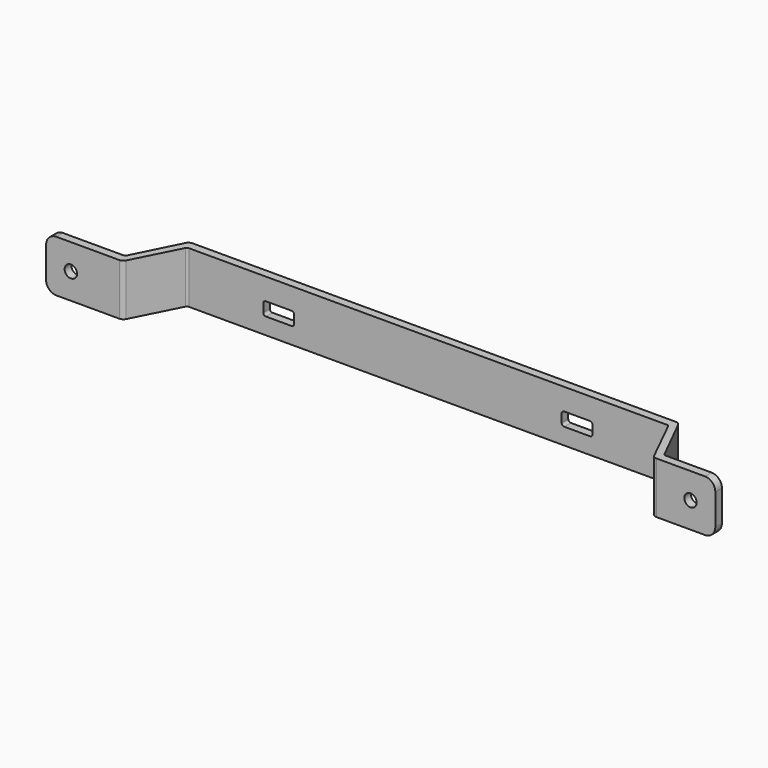
from build123d import *

# Parameters (mm, degrees)
F1_DEPTH = 25
F3_DEPTH = 4
F4_R     = 5
F5_R     = 3
F6_DEPTH = 4
F7_R     = 3
F8_DEPTH = 4


with BuildPart() as f1:
    # F0 (on Top) → F1 (new body)
    with BuildSketch(Plane.XY):
        with BuildLine():
            Line((34.227458, 0), (0, 0))
            Line((0, 0), (0, -4))
            Line((0, -4), (35.464979, -4))
            ThreePointArc((35.464979, -4), (36.773095, -3.630453), (37.694484, -2.631065))
            Line((37.694484, -2.631065), (48.828359, 19.315533))
            ThreePointArc((48.828359, 19.315533), (49.289053, 19.815227), (49.943111, 20))
            Line((49.943111, 20), (281.397978, 20))
            ThreePointArc((281.397978, 20), (282.05826, 19.81138), (282.519275, 19.302444))
            Line((282.519275, 19.302444), (293.312652, -2.604888))
            ThreePointArc((293.312652, -2.604888), (294.23468, -3.62276), (295.555244, -4))
            Line((295.555244, -4), (324, -4))
            Line((324, -4), (324, 0))
            Line((324, 0), (296.772542, 0))
            ThreePointArc((296.772542, 0), (296.115379, 0.186686), (295.654508, 0.690983))
            Line((295.654508, 0.690983), (284.690983, 22.618034))
            ThreePointArc((284.690983, 22.618034), (283.769243, 23.626627), (282.454915, 24))
            Line((282.454915, 24), (48.545085, 24))
            ThreePointArc((48.545085, 24), (47.230757, 23.626627), (46.309017, 22.618034))
            Line((46.309017, 22.618034), (35.345492, 0.690983))
            ThreePointArc((35.345492, 0.690983), (34.884621, 0.186686), (34.227458, 0))
        make_face()
    extrude(amount=F1_DEPTH)

    # F2 (on face) → F3 (cut)
    with BuildSketch(Plane.XZ.offset(-20)):
        with BuildLine():
            Line((99.693111, 14.5), (87.193111, 14.5))
            ThreePointArc((87.193111, 14.5), (86.309228, 14.133883), (85.943111, 13.25))
            Line((85.943111, 13.25), (85.943111, 9.25))
            ThreePointArc((85.943111, 9.25), (86.309228, 8.366117), (87.193111, 8))
            Line((87.193111, 8), (99.693111, 8))
            ThreePointArc((99.693111, 8), (100.576995, 8.366117), (100.943111, 9.25))
            Line((100.943111, 9.25), (100.943111, 13.25))
            ThreePointArc((100.943111, 13.25), (100.576995, 14.133883), (99.693111, 14.5))
        make_face()
        with BuildLine():
            Line((244.147978, 14.5), (231.647978, 14.5))
            ThreePointArc((231.647978, 14.5), (230.764095, 14.133883), (230.397978, 13.25))
            Line((230.397978, 13.25), (230.397978, 9.25))
            ThreePointArc((230.397978, 9.25), (230.764095, 8.366117), (231.647978, 8))
            Line((231.647978, 8), (244.147978, 8))
            ThreePointArc((244.147978, 8), (245.031862, 8.366117), (245.397978, 9.25))
            Line((245.397978, 9.25), (245.397978, 13.25))
            ThreePointArc((245.397978, 13.25), (245.031862, 14.133883), (244.147978, 14.5))
        make_face()
    extrude(amount=-F3_DEPTH, mode=Mode.SUBTRACT)

    # F4
    f4_edges = [f1.edges().sort_by_distance(p)[0] for p in [
        (324, -2, 25),
        (324, -2, 0),
        (0, -2, 25),
        (0, -2, 0),
    ]]
    fillet(f4_edges, radius=F4_R)

    # F5 (on face) → F6 (cut)
    with BuildSketch(Plane.XZ.offset(4)):
        with Locations((12, 12.5)):
            Circle(F5_R)
    extrude(amount=-F6_DEPTH, mode=Mode.SUBTRACT)

    # F7 (on face) → F8 (cut)
    with BuildSketch(Plane.XZ.offset(4)):
        with Locations((312, 12.5)):
            Circle(F7_R)
    extrude(amount=-F8_DEPTH, mode=Mode.SUBTRACT)


solid = f1.part
